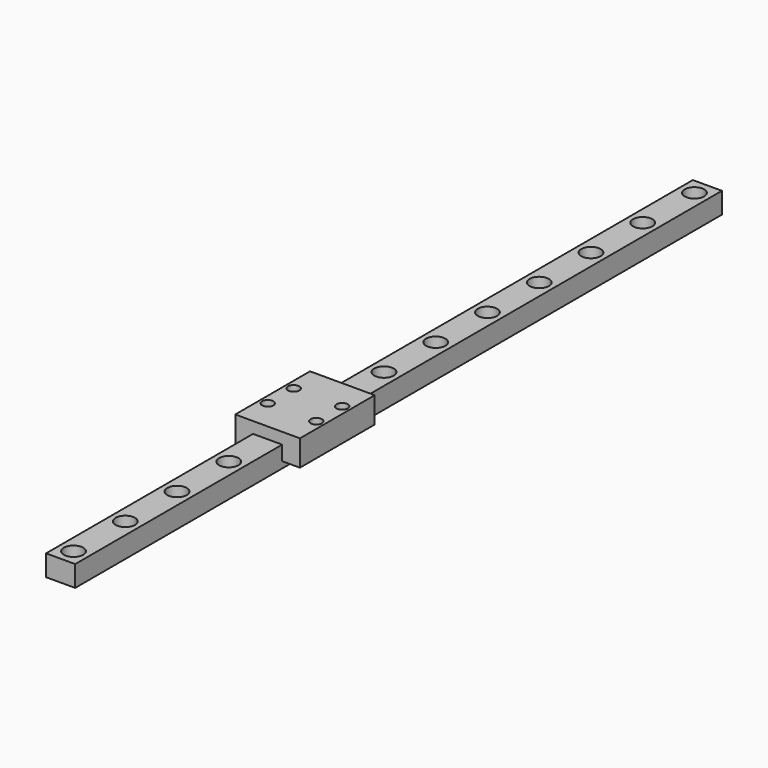
from build123d import *

# Parameters (mm, degrees)
SKETCH_W               = 9
SKETCH_H               = 250
PAD_DEPTH              = 6.5
SKETCH001_R            = 1.75
POCKET_DEPTH           = 6.5
LINEARPATTERN_COUNT    = 13
LINEARPATTERN_PITCH    = 20
SKETCH002_R            = 3
POCKET001_DEPTH        = 3.5
LINEARPATTERN001_COUNT = 13
LINEARPATTERN001_PITCH = 20
SKETCH005_W            = 20
SKETCH005_H            = 28.9
SKETCH005_R            = 1.75
PAD002_DEPTH           = 8


with BuildPart() as part:
    # Sketch → Pad (new body)
    with BuildSketch(Plane.XY):
        with Locations((0, 125)):
            Rectangle(SKETCH_W, SKETCH_H)
    extrude(amount=-PAD_DEPTH)

    # Sketch001 → Pocket (cut)
    with BuildSketch(Plane.XY):
        with Locations((0, 5)):
            Circle(SKETCH001_R)
    pocket = extrude(amount=-POCKET_DEPTH, mode=Mode.SUBTRACT)

    # LinearPattern: Pocket ×13
    with Locations(*[(0, i * LINEARPATTERN_PITCH, 0) for i in range(1, LINEARPATTERN_COUNT)]):
        add(pocket, mode=Mode.SUBTRACT)

    # Sketch002 → Pocket001 (cut)
    with BuildSketch(Plane.XY):
        with Locations((0, 5)):
            Circle(SKETCH002_R)
    pocket001 = extrude(amount=-POCKET001_DEPTH, mode=Mode.SUBTRACT)

    # LinearPattern001: Pocket001 ×13
    with Locations(*[(0, i * LINEARPATTERN001_PITCH, 0) for i in range(1, LINEARPATTERN001_COUNT)]):
        add(pocket001, mode=Mode.SUBTRACT)

    # Sketch005 → Pad002 (join)
    with BuildSketch(Plane.XY.offset(-4.5)):
        with Locations((0, 94.45)):
            Rectangle(SKETCH005_W, SKETCH005_H)
        with Locations((-7.5, 99.45)):
            Circle(SKETCH005_R, mode=Mode.SUBTRACT)
        with Locations((7.5, 99.45)):
            Circle(SKETCH005_R, mode=Mode.SUBTRACT)
        with Locations((7.5, 89.45)):
            Circle(SKETCH005_R, mode=Mode.SUBTRACT)
        with Locations((-7.5, 89.45)):
            Circle(SKETCH005_R, mode=Mode.SUBTRACT)
    extrude(amount=PAD002_DEPTH)


solid = part.part
